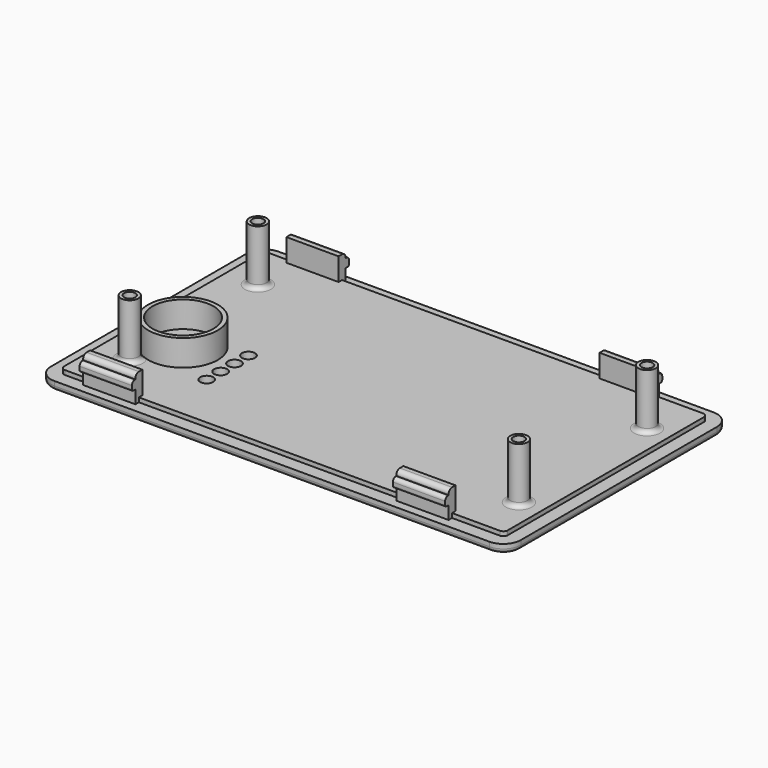
from build123d import *

# Parameters (mm, degrees)
SKETCH_W        = 108
SKETCH_H        = 64.4
PAD_DEPTH       = 2
SKETCH001_W     = 102
SKETCH001_H     = 58.4
PAD001_DEPTH    = 1
SKETCH002_R     = 2
PAD002_DEPTH    = 12.8
SKETCH003_R     = 1.3
POCKET_DEPTH    = 4
SKETCH004_W     = 12
SKETCH004_H     = 2
PAD003_DEPTH    = 6.2
SKETCH005_W     = 12
SKETCH005_H     = 2
PAD004_DEPTH    = 1
SKETCH006_W     = 12
SKETCH006_H     = 2
PAD005_DEPTH    = 1
FILLET_R        = 4
FILLET001_R     = 1
FILLET002_R     = 1
FILLET003_R     = 0.8
FILLET004_R     = 0.4
FILLET005_R     = 1
SKETCH007_R     = 1.2
SKETCH007_R_2   = 0.8
SKETCH007_R_3   = 0.5
SKETCH007_R_4   = 0.6
POCKET001_DEPTH = 3.001
SKETCH011_R     = 8
PAD006_DEPTH    = 6
SKETCH009_R     = 7
POCKET002_DEPTH = 6
SKETCH010_R     = 1.5
POCKET003_DEPTH = 2
CHAMFER_SIZE    = 0.6
FILLET006_R     = 1


with BuildPart() as part:
    # Sketch → Pad (new body)
    with BuildSketch(Plane.XY):
        Rectangle(SKETCH_W, SKETCH_H)
    extrude(amount=PAD_DEPTH)

    # Sketch001 (on Face6 of Pad) → Pad001 (join)
    with BuildSketch(Plane.XY.offset(2)):
        Rectangle(SKETCH001_W, SKETCH001_H)
    extrude(amount=PAD001_DEPTH)

    # Sketch002 (on Face11 of Pad001) → Pad002 (join)
    with BuildSketch(Plane.XY.offset(3)):
        with Locations((-43.71, 18.4)):
            Circle(SKETCH002_R)
        with Locations((45.75, 18.4)):
            Circle(SKETCH002_R)
        with Locations((-43.71, -18.425)):
            Circle(SKETCH002_R)
        with Locations((45.75, -18.425)):
            Circle(SKETCH002_R)
    extrude(amount=PAD002_DEPTH)

    # Sketch003 → Pocket (cut)
    with BuildSketch(Plane.XY.offset(16.8)):
        with Locations((-43.71, 18.4)):
            Circle(SKETCH003_R)
        with Locations((45.75, 18.4)):
            Circle(SKETCH003_R)
        with Locations((45.75, -18.425)):
            Circle(SKETCH003_R)
        with Locations((-43.71, -18.425)):
            Circle(SKETCH003_R)
    extrude(amount=-POCKET_DEPTH, mode=Mode.SUBTRACT)

    # Sketch004 (on Face11 of Pocket) → Pad003 (join)
    with BuildSketch(Plane.XY.offset(2)):
        with Locations((-39, 29.2)):
            Rectangle(SKETCH004_W, SKETCH004_H)
        with Locations((33, 29.2)):
            Rectangle(SKETCH004_W, SKETCH004_H)
        with Locations((-39, -29.2)):
            Rectangle(SKETCH004_W, SKETCH004_H)
        with Locations((33, -29.2)):
            Rectangle(SKETCH004_W, SKETCH004_H)
    extrude(amount=PAD003_DEPTH)

    # Sketch005 (on Face19 of Pad003) → Pad004 (join)
    with BuildSketch(Plane.XZ.offset(30.2)):
        with Locations((33, 6)):
            Rectangle(SKETCH005_W, SKETCH005_H)
        with Locations((-39, 6)):
            Rectangle(SKETCH005_W, SKETCH005_H)
    extrude(amount=PAD004_DEPTH)

    # Sketch006 → Pad005 (join)
    with BuildSketch(Plane(origin=(0, 30.2, 0), x_dir=(-1, 0, 0), z_dir=(0, 1, 0))):
        with Locations((-33, 6)):
            Rectangle(SKETCH006_W, SKETCH006_H)
        with Locations((39, 6)):
            Rectangle(SKETCH006_W, SKETCH006_H)
    extrude(amount=PAD005_DEPTH)

    # Fillet
    fillet_edges = [part.edges().sort_by_distance(p)[0] for p in [
        (-54, 32.2, 1),
        (54, 32.2, 1),
        (-54, -32.2, 1),
        (54, -32.2, 1),
    ]]
    fillet(fillet_edges, radius=FILLET_R)

    # Fillet001
    fillet001_edges = [part.edges().sort_by_distance(p)[0] for p in [
        (-51, 29.2, 2.5),
        (-51, -29.2, 2.5),
        (51, -29.2, 2.5),
        (51, 29.2, 2.5),
    ]]
    fillet(fillet001_edges, radius=FILLET001_R)

    # Fillet002
    fillet002_edges = [part.edges().sort_by_distance(p)[0] for p in [
        (-39, -30.2, 8.2),
        (33, -30.2, 8.2),
        (33, 30.2, 8.2),
        (-39, 30.2, 8.2),
    ]]
    fillet(fillet002_edges, radius=FILLET002_R)

    # Fillet003
    fillet003_edges = [part.edges().sort_by_distance(p)[0] for p in [
        (-39, 31.2, 7),
        (33, 31.2, 7),
        (-39, -31.2, 7),
        (33, -31.2, 7),
    ]]
    fillet(fillet003_edges, radius=FILLET003_R)

    # Fillet004
    fillet004_edges = [part.edges().sort_by_distance(p)[0] for p in [
        (33, -31.2, 5),
        (-39, -31.2, 5),
        (-39, 31.2, 5),
        (33, 31.2, 5),
    ]]
    fillet(fillet004_edges, radius=FILLET004_R)

    # Fillet005
    fillet005_edges = [part.edges().sort_by_distance(p)[0] for p in [
        (0, -32.2, 0),
    ]]
    fillet(fillet005_edges, radius=FILLET005_R)

    # Sketch007 (on Face43 of Fillet005) → Pocket001 (cut, through all)
    with BuildSketch(Plane.XY.offset(3)):
        with Locations((-39, -9)):
            Circle(SKETCH007_R)
        with Locations((-27.8, -4.2)):
            Circle(SKETCH007_R_2)
        with Locations((-27.8, -8.2)):
            Circle(SKETCH007_R_2)
        with Locations((-27.8, -12.2)):
            Circle(SKETCH007_R_2)
        with Locations((-27.8, -16.2)):
            Circle(SKETCH007_R_2)
        with Locations((-47.56, 6.08)):
            Circle(SKETCH007_R_3)
        with Locations((-41.598076, -7.5)):
            Circle(SKETCH007_R_4)
        with Locations((-39, -6)):
            Circle(SKETCH007_R_4)
        with Locations((-36.401924, -10.5)):
            Circle(SKETCH007_R_4)
        with Locations((-41.598076, -10.5)):
            Circle(SKETCH007_R_4)
        with Locations((-39, -12)):
            Circle(SKETCH007_R_4)
        with Locations((-36.401924, -7.5)):
            Circle(SKETCH007_R_4)
    extrude(amount=-POCKET001_DEPTH, mode=Mode.SUBTRACT)

    # Sketch011 (on Face55 of Pocket001) → Pad006 (join)
    with BuildSketch(Plane.XY.offset(3)):
        with Locations((-39, -9)):
            Circle(SKETCH011_R)
    extrude(amount=PAD006_DEPTH)

    # Sketch009 → Pocket002 (cut)
    with BuildSketch(Plane.XY.offset(9)):
        with Locations((-39, -9)):
            Circle(SKETCH009_R)
    extrude(amount=-POCKET002_DEPTH, mode=Mode.SUBTRACT)

    # Sketch010 → Pocket003 (cut)
    with BuildSketch(Plane.XY.offset(3)):
        with Locations((-27.8, -4.2)):
            Circle(SKETCH010_R)
        with Locations((-27.8, -8.2)):
            Circle(SKETCH010_R)
        with Locations((-27.8, -12.2)):
            Circle(SKETCH010_R)
        with Locations((-27.8, -16.2)):
            Circle(SKETCH010_R)
    extrude(amount=-POCKET003_DEPTH, mode=Mode.SUBTRACT)

    # Chamfer
    chamfer_edges = [part.edges().sort_by_distance(p)[0] for p in [
        (-28.6, -16.2, 1),
        (-28.6, -12.2, 1),
        (-28.6, -8.2, 1),
        (-28.6, -4.2, 1),
    ]]
    chamfer(chamfer_edges, length=CHAMFER_SIZE)

    # Fillet006
    fillet006_edges = [part.edges().sort_by_distance(p)[0] for p in [
        (-45.71, -18.425, 3),
        (-45.71, 18.4, 3),
        (43.75, 18.4, 3),
        (43.75, -18.425, 3),
    ]]
    fillet(fillet006_edges, radius=FILLET006_R)


solid = part.part
